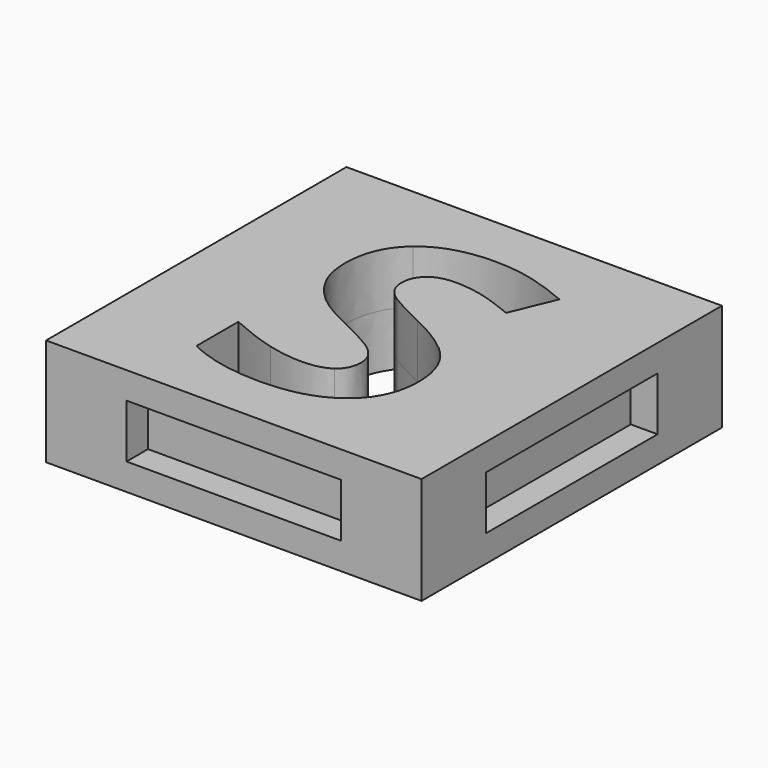
from build123d import *

# Parameters (mm, degrees)
F0_W     = 35.56
F0_H     = 35.56
F1_DEPTH = 5.08
F2_W     = 19.812
F2_H     = 4.572
F3_DEPTH = 2.54
F4_W     = 19.812
F4_H     = 4.572
F5_DEPTH = 2.54
F6_W     = 20.32
F6_H     = 5.08
F7_DEPTH = 2.54
F8_W     = 20.32
F8_H     = 5.08
F9_DEPTH = 2.54


with BuildPart() as f1:
    # F0 (on Top) → F1 (new body, symmetric)
    with BuildSketch(Plane.XY):
        Rectangle(F0_W, F0_H)
        with BuildLine():
            add(Edge.make_bspline(
                [(6.5649739583, -1.5461588542), (7.8741102431, -3.2411458333), (7.8741102431, -5.705078125)],
                knots=[0, 0, 0, 1, 1, 1], degree=2))
            add(Edge.make_bspline(
                [(7.8741102431, -5.705078125), (7.8741102431, -9.1171006944), (5.4184461806, -11.0821831597)],
                knots=[0, 0, 0, 1, 1, 1], degree=2))
            add(Edge.make_bspline(
                [(5.4184461806, -11.0821831597), (2.9627821181, -13.047265625), (-1.4083550347, -13.047265625)],
                knots=[0, 0, 0, 1, 1, 1], degree=2))
            add(Edge.make_bspline(
                [(-1.4083550347, -13.047265625), (-5.4432508681, -13.047265625), (-8.5410807292, -11.5259114583)],
                knots=[0, 0, 0, 1, 1, 1], degree=2))
            Line((-8.5410807292, -11.5259114583), (-8.5410807292, -6.5649739583))
            add(Edge.make_bspline(
                [(-8.5410807292, -6.5649739583), (-5.9944661458, -7.7059895833), (-4.2278211806, -8.1690104167)],
                knots=[0, 0, 0, 1, 1, 1], degree=2))
            add(Edge.make_bspline(
                [(-4.2278211806, -8.1690104167), (-2.4611762153, -8.63203125), (-0.9949435764, -8.63203125)],
                knots=[0, 0, 0, 1, 1, 1], degree=2))
            add(Edge.make_bspline(
                [(-0.9949435764, -8.63203125), (0.7579210069, -8.63203125), (1.6977430556, -7.9623046875)],
                knots=[0, 0, 0, 1, 1, 1], degree=2))
            add(Edge.make_bspline(
                [(1.6977430556, -7.9623046875), (2.6375651042, -7.292578125), (2.6375651042, -5.9641493056)],
                knots=[0, 0, 0, 1, 1, 1], degree=2))
            add(Edge.make_bspline(
                [(2.6375651042, -5.9641493056), (2.6375651042, -5.2255208333), (2.2241536458, -4.6467447917)],
                knots=[0, 0, 0, 1, 1, 1], degree=2))
            add(Edge.make_bspline(
                [(2.2241536458, -4.6467447917), (1.8107421875, -4.06796875), (1.0087239583, -3.5360460069)],
                knots=[0, 0, 0, 1, 1, 1], degree=2))
            add(Edge.make_bspline(
                [(1.0087239583, -3.5360460069), (0.2067057292, -3.0041232639), (-2.2572265625, -1.8300347222)],
                knots=[0, 0, 0, 1, 1, 1], degree=2))
            add(Edge.make_bspline(
                [(-2.2572265625, -1.8300347222), (-4.5613064236, -0.744140625), (-5.7161024306, 0.2535590278)],
                knots=[0, 0, 0, 1, 1, 1], degree=2))
            add(Edge.make_bspline(
                [(-5.7161024306, 0.2535590278), (-6.8708984375, 1.2512586806), (-7.5599175347, 2.5796875)],
                knots=[0, 0, 0, 1, 1, 1], degree=2))
            add(Edge.make_bspline(
                [(-7.5599175347, 2.5796875), (-8.2489366319, 3.9081163194), (-8.2489366319, 5.6775173611)],
                knots=[0, 0, 0, 1, 1, 1], degree=2))
            add(Edge.make_bspline(
                [(-8.2489366319, 5.6775173611), (-8.2489366319, 9.0233940972), (-5.9834418403, 10.9333550347)],
                knots=[0, 0, 0, 1, 1, 1], degree=2))
            add(Edge.make_bspline(
                [(-5.9834418403, 10.9333550347), (-3.7179470486, 12.8433159722), (0.2783637153, 12.8433159722)],
                knots=[0, 0, 0, 1, 1, 1], degree=2))
            add(Edge.make_bspline(
                [(0.2783637153, 12.8433159722), (2.2406901042, 12.8433159722), (4.0238715278, 12.3802951389)],
                knots=[0, 0, 0, 1, 1, 1], degree=2))
            add(Edge.make_bspline(
                [(4.0238715278, 12.3802951389), (5.8070529514, 11.9172743056), (7.7528428819, 11.0739149306)],
                knots=[0, 0, 0, 1, 1, 1], degree=2))
            Line((7.7528428819, 11.0739149306), (6.0330512153, 6.9177517361))
            add(Edge.make_bspline(
                [(6.0330512153, 6.9177517361), (4.0156032986, 7.7445746528), (2.6981987847, 8.0725477431)],
                knots=[0, 0, 0, 1, 1, 1], degree=2))
            add(Edge.make_bspline(
                [(2.6981987847, 8.0725477431), (1.3807942708, 8.4005208333), (0.1074869792, 8.4005208333)],
                knots=[0, 0, 0, 1, 1, 1], degree=2))
            add(Edge.make_bspline(
                [(0.1074869792, 8.4005208333), (-1.4083550347, 8.4005208333), (-2.2186414931, 7.6949652778)],
                knots=[0, 0, 0, 1, 1, 1], degree=2))
            add(Edge.make_bspline(
                [(-2.2186414931, 7.6949652778), (-3.0289279514, 6.9894097222), (-3.0289279514, 5.85390625)],
                knots=[0, 0, 0, 1, 1, 1], degree=2))
            add(Edge.make_bspline(
                [(-3.0289279514, 5.85390625), (-3.0289279514, 5.1483506944), (-2.7009548611, 4.6219401042)],
                knots=[0, 0, 0, 1, 1, 1], degree=2))
            add(Edge.make_bspline(
                [(-2.7009548611, 4.6219401042), (-2.3729817708, 4.0955295139), (-1.6591579861, 3.6049479167)],
                knots=[0, 0, 0, 1, 1, 1], degree=2))
            add(Edge.make_bspline(
                [(-1.6591579861, 3.6049479167), (-0.9453342014, 3.1143663194), (1.7225477431, 1.8410590278)],
                knots=[0, 0, 0, 1, 1, 1], degree=2))
            add(Edge.make_bspline(
                [(1.7225477431, 1.8410590278), (5.2558376736, 0.148828125), (6.5649739583, -1.5461588542)],
                knots=[0, 0, 0, 1, 1, 1], degree=2))
        make_face(mode=Mode.SUBTRACT)
    extrude(amount=F1_DEPTH, both=True)

    # F2 (on face) → F3 (join)
    with BuildSketch(Plane(origin=(0, 17.78, 0), x_dir=(-1, 0, 0), z_dir=(0, 1, 0))):
        Rectangle(F2_W, F2_H)
    extrude(amount=F3_DEPTH)

    # F4 (on face) → F5 (join)
    with BuildSketch(Plane(origin=(-17.78, 0, 0), x_dir=(0, -1, 0), z_dir=(-1, 0, 0))):
        Rectangle(F4_W, F4_H)
    extrude(amount=F5_DEPTH)

    # F6 (on face) → F7 (cut)
    with BuildSketch(Plane.XZ.offset(17.78)):
        Rectangle(F6_W, F6_H)
    extrude(amount=-F7_DEPTH, mode=Mode.SUBTRACT)

    # F8 (on face) → F9 (cut)
    with BuildSketch(Plane.YZ.offset(17.78)):
        Rectangle(F8_W, F8_H)
    extrude(amount=-F9_DEPTH, mode=Mode.SUBTRACT)


solid = f1.part
